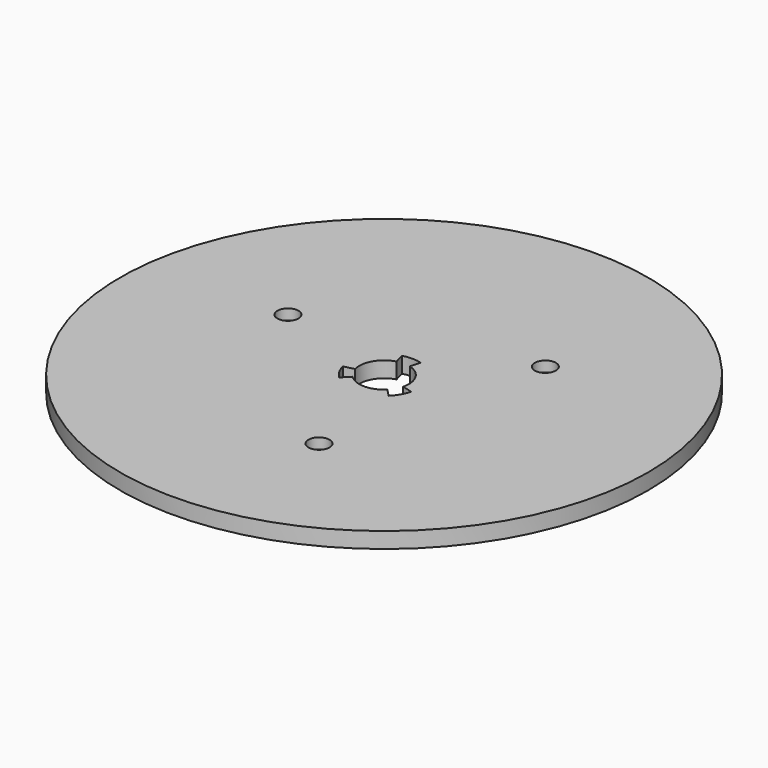
from build123d import *

# Parameters (mm, degrees)
SKETCH_R              = 25
PAD_DEPTH             = 1.5
POCKET_DEPTH          = 1.5
POLARPATTERN_COUNT    = 3
SKETCH002_R           = 1
POCKET001_DEPTH       = 5
POLARPATTERN001_COUNT = 3
SKETCH003_R           = 2
POCKET002_DEPTH       = 0.5
POLARPATTERN002_COUNT = 3


with BuildPart() as part:
    # Sketch → Pad (new body)
    with BuildSketch(Plane.XY):
        Circle(SKETCH_R)
    extrude(amount=PAD_DEPTH)

    # Sketch001 (on Face3 of Pad) → Pocket (cut)
    with BuildSketch(Plane.XY.offset(1.5)):
        with BuildLine():
            ThreePointArc((-0.62801, 2.264532), (0, -2.35), (0.62801, 2.264532))
            Line((0.895249, 3.228162), (0.62801, 2.264532))
            ThreePointArc((0.895249, 3.228162), (0, 3.35), (-0.895249, 3.228162))
            Line((-0.895249, 3.228162), (-0.62801, 2.264532))
        make_face()
    pocket = extrude(amount=-POCKET_DEPTH, mode=Mode.SUBTRACT)

    # PolarPattern: Pocket ×3 about axis
    polarpattern_axis = Axis((0, 0, 1.5), (0, 0, 1))
    for i in range(1, POLARPATTERN_COUNT):
        add(pocket.rotate(polarpattern_axis, i * 360 / POLARPATTERN_COUNT), mode=Mode.SUBTRACT)

    # Sketch002 (on Face3 of PolarPattern) → Pocket001 (cut)
    with BuildSketch(Plane.XY.offset(1.5)):
        with Locations((8.485281, 8.485281)):
            Circle(SKETCH002_R)
    pocket001 = extrude(amount=-POCKET001_DEPTH, mode=Mode.SUBTRACT)

    # PolarPattern001: Pocket001 ×3 about axis
    polarpattern001_axis = Axis((0, 0, 1.5), (0, 0, 1))
    for i in range(1, POLARPATTERN001_COUNT):
        add(pocket001.rotate(polarpattern001_axis, i * 360 / POLARPATTERN001_COUNT), mode=Mode.SUBTRACT)

    # Sketch003 (on Face2 of PolarPattern001) → Pocket002 (cut)
    with BuildSketch(Plane(origin=(0, 0, 0), x_dir=(1, 0, 0), z_dir=(0, 0, -1))):
        with Locations((3.105829, 11.59111)):
            Circle(SKETCH003_R)
    pocket002 = extrude(amount=-POCKET002_DEPTH, mode=Mode.SUBTRACT)

    # PolarPattern002: Pocket002 ×3 about axis
    polarpattern002_axis = Axis((0, 0, 0), (0, 0, -1))
    for i in range(1, POLARPATTERN002_COUNT):
        add(pocket002.rotate(polarpattern002_axis, i * 360 / POLARPATTERN002_COUNT), mode=Mode.SUBTRACT)


solid = part.part
